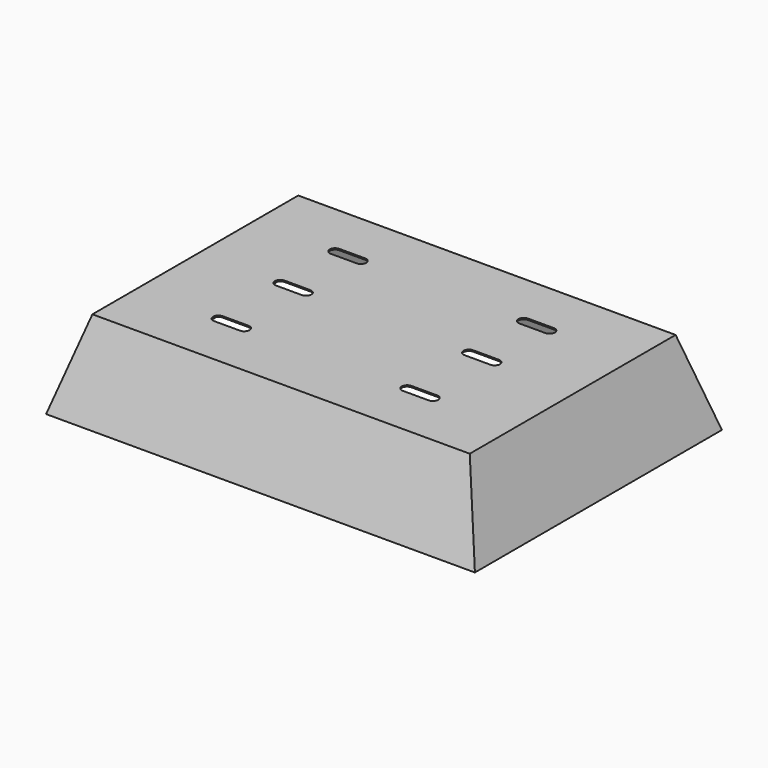
from build123d import *

# Parameters (mm, degrees)
F0_W     = 635
F0_H     = 457.2
F1_DEPTH = 127
F3_DEPTH = 457.201
F5_DEPTH = 330.2
F6_T     = -1.9304
F8_DEPTH = 127.001


with BuildPart() as f1:
    # F0 (on Top) → F1 (new body)
    with BuildSketch(Plane.XY):
        Rectangle(F0_W, F0_H)
    extrude(amount=F1_DEPTH)

    # F2 (on face) → F3 (cut, through all)
    with BuildSketch(Plane.XZ.offset(228.6)):
        Polygon((-317.5, 127), (-317.5, 0), (-279.4, 127), align=None)
        Polygon((279.4, 127), (317.5, 0), (317.5, 127), align=None)
    extrude(amount=-F3_DEPTH, mode=Mode.SUBTRACT)

    # F4 (on Right) → F5 (cut, symmetric)
    with BuildSketch(Plane.YZ):
        Polygon((-228.6, 127), (-228.6, 0), (-190.5, 127), align=None)
        Polygon((228.6, 0), (228.6, 127), (190.5, 127), align=None)
    extrude(amount=F5_DEPTH, both=True, mode=Mode.SUBTRACT)

    # F6
    f6_openings = [f1.faces().sort_by_distance(p)[0] for p in [
        (0, 0, 0),
    ]]
    offset(amount=F6_T, openings=f6_openings)

    # F7 (on face) → F8 (cut, through all)
    with BuildSketch(Plane.XY.offset(127)):
        with BuildLine():
            ThreePointArc((-158.75, 115.8875), (-166.6875, 107.95), (-158.75, 100.0125))
            Line((-158.75, 100.0125), (-120.65, 100.0125))
            ThreePointArc((-120.65, 100.0125), (-112.7125, 107.95), (-120.65, 115.8875))
            Line((-120.65, 115.8875), (-158.75, 115.8875))
        make_face()
        with BuildLine():
            ThreePointArc((158.75, 100.0125), (166.6875, 107.95), (158.75, 115.8875))
            Line((158.75, 115.8875), (120.65, 115.8875))
            ThreePointArc((120.65, 115.8875), (112.7125, 107.95), (120.65, 100.0125))
            Line((120.65, 100.0125), (158.75, 100.0125))
        make_face()
        with BuildLine():
            Line((120.65, -1.5875), (158.75, -1.5875))
            ThreePointArc((158.75, -1.5875), (166.6875, 6.35), (158.75, 14.2875))
            Line((158.75, 14.2875), (120.65, 14.2875))
            ThreePointArc((120.65, 14.2875), (112.7125, 6.35), (120.65, -1.5875))
        make_face()
        with BuildLine():
            Line((-158.75, -1.5875), (-120.65, -1.5875))
            ThreePointArc((-120.65, -1.5875), (-112.7125, 6.35), (-120.65, 14.2875))
            Line((-120.65, 14.2875), (-158.75, 14.2875))
            ThreePointArc((-158.75, 14.2875), (-166.6875, 6.35), (-158.75, -1.5875))
        make_face()
        with BuildLine():
            ThreePointArc((-158.75, -100.0125), (-166.6875, -107.95), (-158.75, -115.8875))
            Line((-158.75, -115.8875), (-120.65, -115.8875))
            ThreePointArc((-120.65, -115.8875), (-112.7125, -107.95), (-120.65, -100.0125))
            Line((-120.65, -100.0125), (-158.75, -100.0125))
        make_face()
        with BuildLine():
            ThreePointArc((120.65, -100.0125), (112.7125, -107.95), (120.65, -115.8875))
            Line((120.65, -115.8875), (158.75, -115.8875))
            ThreePointArc((158.75, -115.8875), (166.6875, -107.95), (158.75, -100.0125))
            Line((158.75, -100.0125), (120.65, -100.0125))
        make_face()
    extrude(amount=-F8_DEPTH, mode=Mode.SUBTRACT)


solid = f1.part
